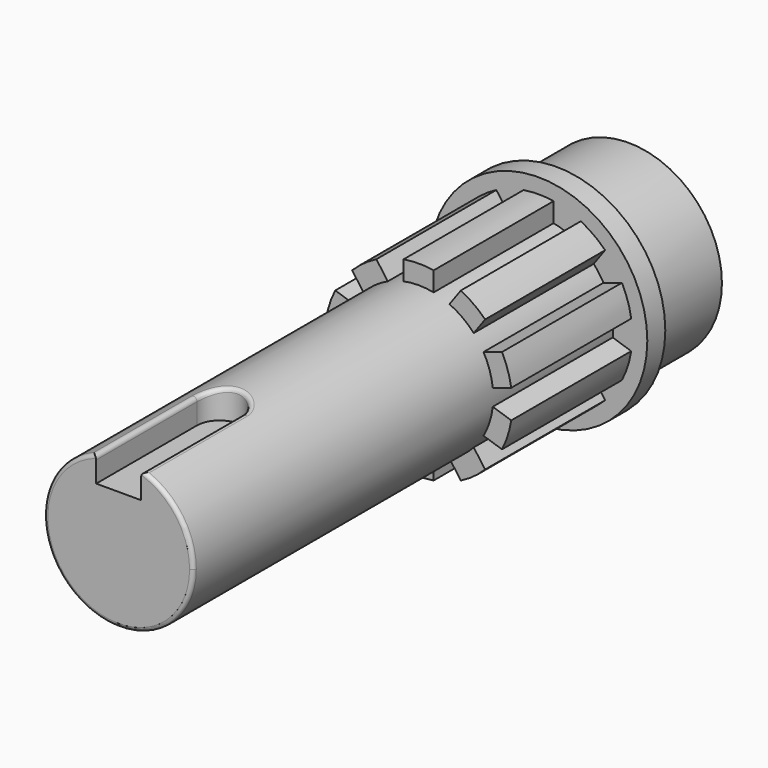
from build123d import *

# Parameters (mm, degrees)
F0_R     = 9.95
F1_DEPTH = 70
F0_R_2   = 12.45
F2_DEPTH = 15
F0_R_3   = 14.5
F3_DEPTH = 3
F5_DEPTH = 20
F8_DEPTH = 3.95
F9_R     = 0.5


with BuildPart() as f1:
    # F0 (on Front) → F1 (new body)
    with BuildSketch(Plane.XZ):
        Circle(F0_R)
    extrude(amount=F1_DEPTH)

    # F0 (on Front) → F2 (join)
    with BuildSketch(Plane.XZ):
        Circle(F0_R_2)
        Circle(F0_R, mode=Mode.SUBTRACT)
        Circle(F0_R)
    extrude(amount=-F2_DEPTH)

    # F0 (on Front) → F3 (join)
    with BuildSketch(Plane.XZ):
        Circle(F0_R_3)
        Circle(F0_R_2, mode=Mode.SUBTRACT)
        Circle(F0_R_2)
        Circle(F0_R, mode=Mode.SUBTRACT)
        Circle(F0_R)
    extrude(amount=-F3_DEPTH)

    # F4 (on Front) → F5 (join)
    with BuildSketch(Plane.XZ):
        with BuildLine():
            Line((8.6518402555, -4.9140777561), (11.1170168717, -5.7150621934))
            ThreePointArc((11.1170168717, -5.7150621934), (11.8882064537, -3.8627124297), (12.3530848492, -1.9108361283))
            Line((12.3530848492, -1.9108361283), (9.887908233, -1.109851691))
            ThreePointArc((9.887908233, -1.109851691), (9.4630123371, -3.074719094), (8.6518402555, -4.9140777561))
        make_face()
        with BuildLine():
            Line((4.1110633656, -9.0609965238), (5.6346263027, -11.1580010051))
            ThreePointArc((5.6346263027, -11.1580010051), (7.3473156537, -10.1127124297), (8.8706942802, -8.8068599959))
            Line((8.8706942802, -8.8068599959), (7.3471313431, -6.7098555146))
            ThreePointArc((7.3471313431, -6.7098555146), (5.8484632603, -8.049719094), (4.1110633656, -9.0609965238))
        make_face()
        with BuildLine():
            ThreePointArc((2, -9.7469225913), (0, -9.95), (-2, -9.7469225913))
            Line((-2, -9.7469225913), (-2, -12.3389626793))
            ThreePointArc((-2, -12.3389626793), (0, -12.5), (2, -12.3389626793))
            Line((2, -12.3389626793), (2, -9.7469225913))
        make_face()
        with BuildLine():
            Line((-7.3471313431, -6.7098555146), (-8.8706942802, -8.8068599959))
            ThreePointArc((-8.8706942802, -8.8068599959), (-7.3473156537, -10.1127124297), (-5.6346263027, -11.1580010051))
            Line((-5.6346263027, -11.1580010051), (-4.1110633656, -9.0609965238))
            ThreePointArc((-4.1110633656, -9.0609965238), (-5.8484632603, -8.049719094), (-7.3471313431, -6.7098555146))
        make_face()
        with BuildLine():
            Line((-9.887908233, -1.109851691), (-12.3530848492, -1.9108361283))
            ThreePointArc((-12.3530848492, -1.9108361283), (-11.8882064537, -3.8627124297), (-11.1170168717, -5.7150621934))
            Line((-11.1170168717, -5.7150621934), (-8.6518402555, -4.9140777561))
            ThreePointArc((-8.6518402555, -4.9140777561), (-9.4630123371, -3.074719094), (-9.887908233, -1.109851691))
        make_face()
        with BuildLine():
            Line((-8.6518402555, 4.9140777561), (-11.1170168717, 5.7150621934))
            ThreePointArc((-11.1170168717, 5.7150621934), (-11.8882064537, 3.8627124297), (-12.3530848492, 1.9108361283))
            Line((-12.3530848492, 1.9108361283), (-9.887908233, 1.109851691))
            ThreePointArc((-9.887908233, 1.109851691), (-9.4630123371, 3.074719094), (-8.6518402555, 4.9140777561))
        make_face()
        with BuildLine():
            Line((-4.1110633656, 9.0609965238), (-5.6346263027, 11.1580010051))
            ThreePointArc((-5.6346263027, 11.1580010051), (-7.3473156537, 10.1127124297), (-8.8706942802, 8.8068599959))
            Line((-8.8706942802, 8.8068599959), (-7.3471313431, 6.7098555146))
            ThreePointArc((-7.3471313431, 6.7098555146), (-5.8484632603, 8.049719094), (-4.1110633656, 9.0609965238))
        make_face()
        with BuildLine():
            ThreePointArc((-2, 9.7469225913), (0, 9.95), (2, 9.7469225913))
            Line((2, 9.7469225913), (2, 12.3389626793))
            ThreePointArc((2, 12.3389626793), (0, 12.5), (-2, 12.3389626793))
            Line((-2, 12.3389626793), (-2, 9.7469225913))
        make_face()
        with BuildLine():
            Line((7.3471313431, 6.7098555146), (8.8706942802, 8.8068599959))
            ThreePointArc((8.8706942802, 8.8068599959), (7.3473156537, 10.1127124297), (5.6346263027, 11.1580010051))
            Line((5.6346263027, 11.1580010051), (4.1110633656, 9.0609965238))
            ThreePointArc((4.1110633656, 9.0609965238), (5.8484632603, 8.049719094), (7.3471313431, 6.7098555146))
        make_face()
        with BuildLine():
            Line((9.887908233, 1.109851691), (12.3530848492, 1.9108361283))
            ThreePointArc((12.3530848492, 1.9108361283), (11.8882064537, 3.8627124297), (11.1170168717, 5.7150621934))
            Line((11.1170168717, 5.7150621934), (8.6518402555, 4.9140777561))
            ThreePointArc((8.6518402555, 4.9140777561), (9.4630123371, 3.074719094), (9.887908233, 1.109851691))
        make_face()
    extrude(amount=F5_DEPTH)

    # F7 (on offset) → F8 (cut)
    with BuildSketch(Plane.XY.offset(6)):
        with BuildLine():
            Line((-3, -73.1982216239), (0, -73.1982216239))
            Line((0, -73.1982216239), (3, -73.1982216239))
            Line((3, -73.1982216239), (3, -53.1982216239))
            ThreePointArc((3, -53.1982216239), (0, -50.1982216239), (-3, -53.1982216239))
            Line((-3, -53.1982216239), (-3, -73.1982216239))
        make_face()
    extrude(amount=F8_DEPTH, mode=Mode.SUBTRACT)

    # F9
    f9_edges = [f1.edges().sort_by_distance(p)[0] for p in [
        (-5.880157, -70, -8.026596),
        (-3, -61.599111, 9.486965),
        (0, -50.198222, 9.95),
        (3, -61.599111, 9.486965),
    ]]
    fillet(f9_edges, radius=F9_R)


solid = f1.part
